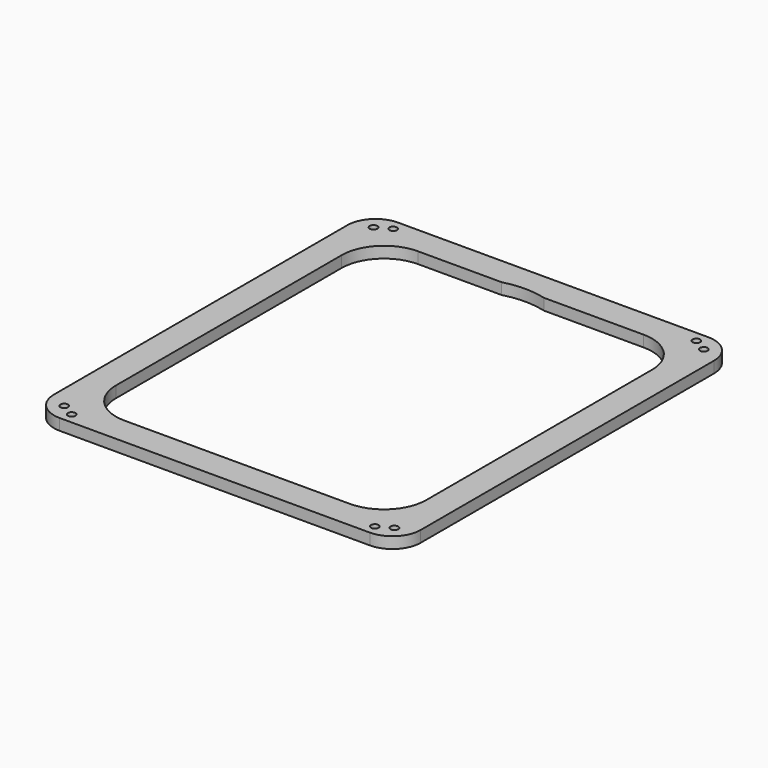
from build123d import *

# Parameters (mm, degrees)
F1_DEPTH = 5.08
F3_D     = 3.4544
F5_D     = 3.429
F6_R     = 36.195
F7_DEPTH = 5.081


with BuildPart() as f1:
    # F0 (on Top) → F1 (new body)
    with BuildSketch(Plane.XY):
        with BuildLine():
            ThreePointArc((0, 12.7), (3.7197438789, 3.7197438789), (12.7, 0))
            Line((12.7, 0), (152.4, 0))
            ThreePointArc((152.4, 0), (161.3802561211, 3.7197438789), (165.1, 12.7))
            Line((165.1, 12.7), (165.1, 177.8))
            ThreePointArc((165.1, 177.8), (161.3802561211, 186.7802561211), (152.4, 190.5))
            Line((152.4, 190.5), (12.7, 190.5))
            ThreePointArc((12.7, 190.5), (3.7197438789, 186.7802561211), (0, 177.8))
            Line((0, 177.8), (0, 12.7))
        make_face()
        with BuildLine():
            ThreePointArc((12.7, 158.75), (18.2796158184, 172.2203841816), (31.75, 177.8))
            Line((31.75, 177.8), (133.35, 177.8))
            ThreePointArc((133.35, 177.8), (146.8203841816, 172.2203841816), (152.4, 158.75))
            Line((152.4, 158.75), (152.4, 31.75))
            ThreePointArc((152.4, 31.75), (146.8203841816, 18.2796158184), (133.35, 12.7))
            Line((133.35, 12.7), (31.75, 12.7))
            ThreePointArc((31.75, 12.7), (18.2796158184, 18.2796158184), (12.7, 31.75))
            Line((12.7, 31.75), (12.7, 158.75))
        make_face(mode=Mode.SUBTRACT)
    extrude(amount=F1_DEPTH)

    # F3 (through all)
    with Locations(Plane(origin=(0, 0, 0), x_dir=(1, 0, 0), z_dir=(0, 0, -1))):
        with Locations((8.2098719395, -182.2901280605), (156.8901280605, -182.2901280605), (156.8901280605, -8.2098719395), (8.2098719395, -8.2098719395)):
            Hole(F3_D / 2)

    # F5 (through all)
    with Locations(Plane.XY.offset(5.08)):
        with Locations((14.3002, 185.7248), (150.7998, 185.7248), (14.3002, 4.7752), (150.7998, 4.7752)):
            Hole(F5_D / 2)

    # F6 (on face) → F7 (cut, through all)
    with BuildSketch(Plane.XY.offset(5.08)):
        with Locations((79.0035873652, 142.875)):
            Circle(F6_R)
    extrude(amount=-F7_DEPTH, mode=Mode.SUBTRACT)


solid = f1.part
